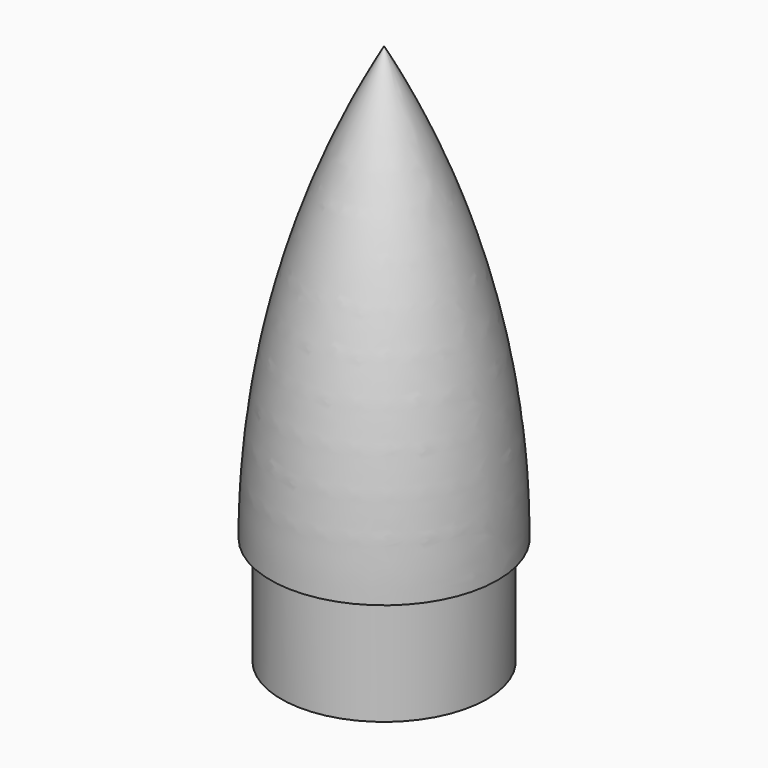
from build123d import *


with BuildPart() as f1:
    # F0 (on Front) → F1 (revolve)
    with BuildSketch(Plane.XZ):
        with BuildLine():
            Line((17, 22), (17, 0))
            Line((17, 0), (19, 0))
            Line((19, 0), (19, 20))
            Line((19, 20), (21, 20))
            ThreePointArc((21, 20), (15.662548, 61.355169), (0, 100))
            Line((0, 100), (0, 95.84508))
            ThreePointArc((0, 95.84508), (13.931707, 60.06365), (18.987568, 22))
            Line((18.987568, 22), (17, 22))
        make_face()
    revolve(axis=Axis((0, 0, 50), (0, 0, 1)))


solid = f1.part
